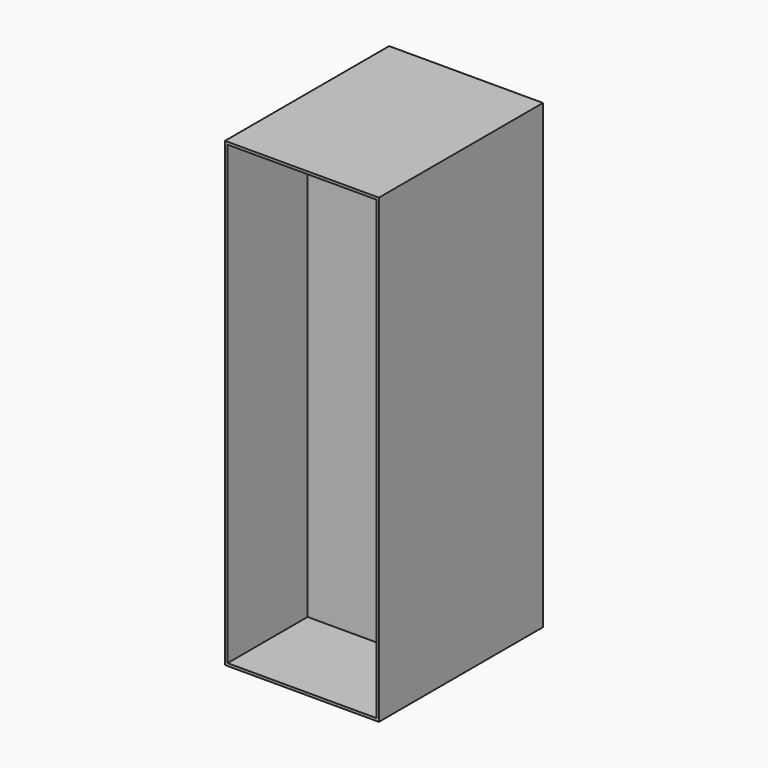
from build123d import *

# Parameters (mm, degrees)
F0_W     = 600
F0_H     = 400
F1_DEPTH = 1800
F2_W     = 580
F2_H     = 1780
F3_DEPTH = 390


with BuildPart() as f1:
    # F0 (on Top) → F1 (new body)
    with BuildSketch(Plane.XY):
        with Locations((190.787974, 63.787562)):
            Rectangle(F0_W, F0_H)
    extrude(amount=F1_DEPTH)

    # F2 (on face) → F3 (cut)
    with BuildSketch(Plane.XZ.offset(136.212438)):
        with Locations((190.787974, 900)):
            Rectangle(F2_W, F2_H)
    extrude(amount=-F3_DEPTH, mode=Mode.SUBTRACT)

    # F4: F1 across face


with BuildPart() as f1_1:
    add(f1.part)
    add(f1.part.mirror(Plane(origin=(190.787974, 263.787562, 900), x_dir=(-1, 0, 0), z_dir=(0, 1, 0))))


solid = f1_1.part
